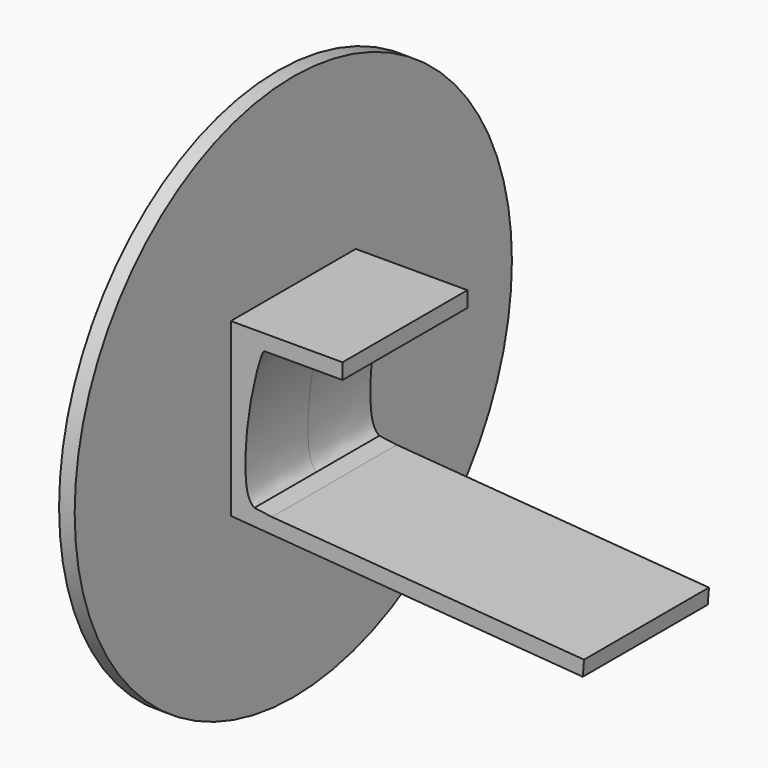
from build123d import *

# Parameters (mm, degrees)
CYLINDER001_R             = 35
CYLINDER001_DEPTH         = 2
PAD002_DEPTH              = 10
FUSION002_PLACEMENT_ANGLE = 270


with BuildPart() as cilindro_grande:
    # Cylinder001 → Cylinder001 (new body)
    with BuildSketch(Plane(origin=(-16.3, 0, 0), x_dir=(0, 0, -1), z_dir=(1, 0, 0))):
        Circle(CYLINDER001_R)
    extrude(amount=CYLINDER001_DEPTH)


with BuildPart() as obj1:
    # Sketch005 → Pad002 (new body, symmetric)
    with BuildSketch(Plane.XY):
        with BuildLine():
            add(Edge.make_bspline(
                [(-11.28, 8.59), (-12.232885, 7.961762), (-12.561857, 4.634312), (-12.202327, -1.322686), (-10.996973, -7.076074), (-10.262423, -9.386153), (-10, -9.49)],
                knots=[0, 0, 0, 0, 0.25, 0.5, 0.75, 1, 1, 1, 1], degree=3))
            Line((-10, -9.49), (0, -9.49))
            Line((0, -9.49), (0, -11.49))
            Line((0, -11.49), (-14.42, -11.49))
            Line((-14.42, -11.49), (-14.25, 10.48))
            Line((-14.25, 10.48), (30.7825887629, 13.9608816937))
            Line((30.7825887629, 13.9608816937), (30.9357048732, 11.98))
            Line((30.9357048732, 11.98), (-9.04, 8.89))
            Line((-9.04, 8.89), (-11.28, 8.59))
        make_face()
    extrude(amount=PAD002_DEPTH, both=True)

    # Fusion002: union cilindro_grande
    add(cilindro_grande.part)


with BuildPart() as obj1_1:
    # Fusion002 placement: moved
    add(obj1.part.moved(Location((16.3, 0, 31))).rotate(Axis((16.3, 0, 31), (1, 0, 0)), FUSION002_PLACEMENT_ANGLE))


solid = obj1_1.part
